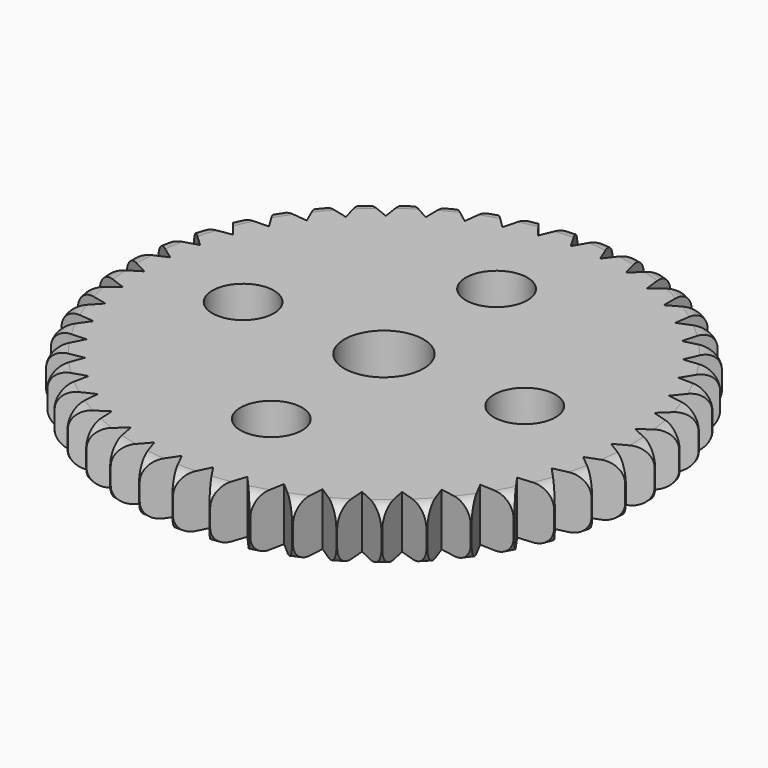
from build123d import *

# Parameters (mm, degrees)
F0_R     = 15
F0_R_2   = 2.25
F1_DEPTH = 3
F2_R     = 1
F4_DEPTH = 3.001
F5_R     = 1.75
F6_DEPTH = 3.0010001


with BuildPart() as f1:
    # F0 (on Top) → F1 (new body)
    with BuildSketch(Plane.XY):
        Circle(F0_R)
        Circle(F0_R_2, mode=Mode.SUBTRACT)
    extrude(amount=F1_DEPTH)

    # F2
    f2_edges = [f1.edges().sort_by_distance(p)[0] for p in [
        (-15, 0, 3),
        (-15, 0, 0),
    ]]
    fillet(f2_edges, radius=F2_R)

    # F3 (on face) → F4 (cut, through all)
    with BuildSketch(Plane.XY.offset(3)):
        Polygon((0, 13.2679491924), (1, 15), (-1, 15), align=None)
        Polygon((-1.7684445519, 13.1495657586), (-1.0082268425, 14.9994492777), (-2.9903818188, 14.7328753669), align=None)
        Polygon((-3.5053311689, 12.7965280123), (-2.998461853, 14.7312330277), (-4.9274002031, 14.2028422239), align=None)
        Polygon((-5.1796650681, 12.2151359204), (-4.9351892408, 14.2001375753), (-6.7764890141, 13.419359025), align=None)
        Polygon((-6.7615677215, 11.4157644387), (-6.7838480596, 13.4156403315), (-8.5046512181, 12.3964070463), align=None)
        Polygon((-8.2228100387, 10.4126783701), (-8.5114489491, 12.3917406681), (-10.0810477197, 11.1522408902), align=None)
        Polygon((-9.537316116, 9.2237778093), (-10.0871628305, 11.146710099), (-11.4775476858, 9.7090627312), align=None)
        Polygon((-10.6816285612, 7.870278715), (-11.4828710522, 9.7027662241), (-12.6692305416, 8.0926261178), align=None)
        Polygon((-11.6353270918, 6.3763343106), (-12.6736671679, 8.085676256), (-13.6348306783, 6.3317763996), align=None)
        Polygon((-12.3813929347, 4.7686040694), (-13.6383013928, 6.3242972036), (-14.3571169385, 4.4579359815), align=None)
        Polygon((-12.9065125273, 3.0757779755), (-14.3595598062, 4.4500609178), (-14.8232001067, 2.5045435902), align=None)
        Polygon((-13.2013150982, 1.3280645508), (-14.8245715347, 2.4964131894), (-15.024762918, 0.5064575593), align=None)
        Polygon((-13.2605398884, -0.4433482172), (-15.025038433, 0.4982169086), (-14.9582084789, -1.5006662188), align=None)
        Polygon((-13.0831300301, -2.2068494258), (-14.9573831644, -1.5088700648), (-14.6247244553, -3.4810105727), align=None)
        Polygon((-12.6722514065, -3.9309693541), (-14.622813039, -3.4890312161), (-14.0302618772, -5.3992362105), align=None)
        Polygon((-12.0352361563, -5.5849410412), (-14.0272984684, -5.4069305227), (-13.1854289436, -7.2211123502), align=None)
        Polygon((-11.1834518319, -7.1392493231), (-13.1814664244, -7.228343026), (-12.1053017181, -8.9141275689), align=None)
        Polygon((-10.1320985445, -8.5661575317), (-12.1004107998, -8.9207655768), (-10.8091550967, -10.4480699699), align=None)
        Polygon((-8.8999377185, -9.8402024562), (-10.8034230577, -10.4539968546), (-9.3201188464, -11.7955663149), align=None)
        Polygon((-7.5089572932, -10.9386487347), (-9.3136479753, -11.8006763108), (-7.6647648546, -12.9325704995), align=None)
        Polygon((-5.983979347, -11.8418945675), (-7.6576706241, -12.9367724187), (-5.8726329524, -13.8387926571), align=None)
        Polygon((-4.3522171477, -12.5338215111), (-5.8650419592, -13.8420115163), (-3.975703776, -14.498061232), align=None)
        Polygon((-2.6427895302, -13.002082113), (-3.9677514816, -14.5002395904), (-2.0078280715, -14.8986115607), align=None)
        Polygon((-0.886201271, -13.2383202515), (-1.9996563848, -14.8997105456), (-0.0041226276, -15.0332958131), align=None)
        Polygon((0.886201271, -13.2383202515), (0.0041226276, -15.0332958131), (1.9996563848, -14.8997105456), align=None)
        Polygon((2.6427895302, -13.002082113), (2.0078280715, -14.8986115607), (3.9677514816, -14.5002395904), align=None)
        Polygon((4.3522171477, -12.5338215111), (3.975703776, -14.498061232), (5.8650419592, -13.8420115163), align=None)
        Polygon((5.983979347, -11.8418945675), (5.8726329524, -13.8387926571), (7.6576706241, -12.9367724187), align=None)
        Polygon((7.5089572932, -10.9386487347), (7.6647648546, -12.9325704995), (9.3136479753, -11.8006763108), align=None)
        Polygon((8.8999377185, -9.8402024562), (9.3201188464, -11.7955663149), (10.8034230577, -10.4539968546), align=None)
        Polygon((10.1320985445, -8.5661575317), (10.8091550967, -10.4480699699), (12.1004107998, -8.9207655768), align=None)
        Polygon((11.1834518319, -7.1392493231), (12.1053017181, -8.9141275689), (13.1814664244, -7.228343026), align=None)
        Polygon((12.0352361563, -5.5849410412), (13.1854289436, -7.2211123502), (14.0272984684, -5.4069305227), align=None)
        Polygon((12.6722514065, -3.9309693541), (14.0302618772, -5.3992362105), (14.622813039, -3.4890312161), align=None)
        Polygon((13.0831300301, -2.2068494258), (14.6247244553, -3.4810105727), (14.9573831644, -1.5088700648), align=None)
        Polygon((13.2605398884, -0.4433482172), (14.9582084789, -1.5006662188), (15.025038433, 0.4982169086), align=None)
        Polygon((13.2013150982, 1.3280645508), (15.024762918, 0.5064575593), (14.8245715347, 2.4964131894), align=None)
        Polygon((12.9065125273, 3.0757779755), (14.8232001067, 2.5045435902), (14.3595598062, 4.4500609178), align=None)
        Polygon((12.3813929347, 4.7686040694), (14.3571169385, 4.4579359815), (13.6383013928, 6.3242972036), align=None)
        Polygon((11.6353270918, 6.3763343106), (13.6348306783, 6.3317763996), (12.6736671679, 8.085676256), align=None)
        Polygon((10.6816285612, 7.870278715), (12.6692305416, 8.0926261178), (11.4828710522, 9.7027662241), align=None)
        Polygon((9.537316116, 9.2237778093), (11.4775476858, 9.7090627312), (10.0871628305, 11.146710099), align=None)
        Polygon((8.2228100387, 10.4126783701), (10.0810477197, 11.1522408902), (8.5114489491, 12.3917406681), align=None)
        Polygon((6.7615677215, 11.4157644387), (8.5046512181, 12.3964070463), (6.7838480596, 13.4156403315), align=None)
        Polygon((5.1796650681, 12.2151359204), (6.7764890141, 13.419359025), (4.9351892408, 14.2001375753), align=None)
        Polygon((3.5053311689, 12.7965280123), (4.9274002031, 14.2028422239), (2.998461853, 14.7312330277), align=None)
        Polygon((1.7684445519, 13.1495657586), (2.9903818188, 14.7328753669), (1.0082268425, 14.9994492777), align=None)
    extrude(amount=-F4_DEPTH, mode=Mode.SUBTRACT)

    # F5 (on face) → F6 (cut, through all)
    with BuildSketch(Plane.XY.offset(3)):
        with Locations((0, 8)):
            Circle(F5_R)
        with Locations((-8, 0)):
            Circle(F5_R)
        with Locations((0, -8)):
            Circle(F5_R)
        with Locations((8, 0)):
            Circle(F5_R)
    extrude(amount=-F6_DEPTH, mode=Mode.SUBTRACT)


solid = f1.part
